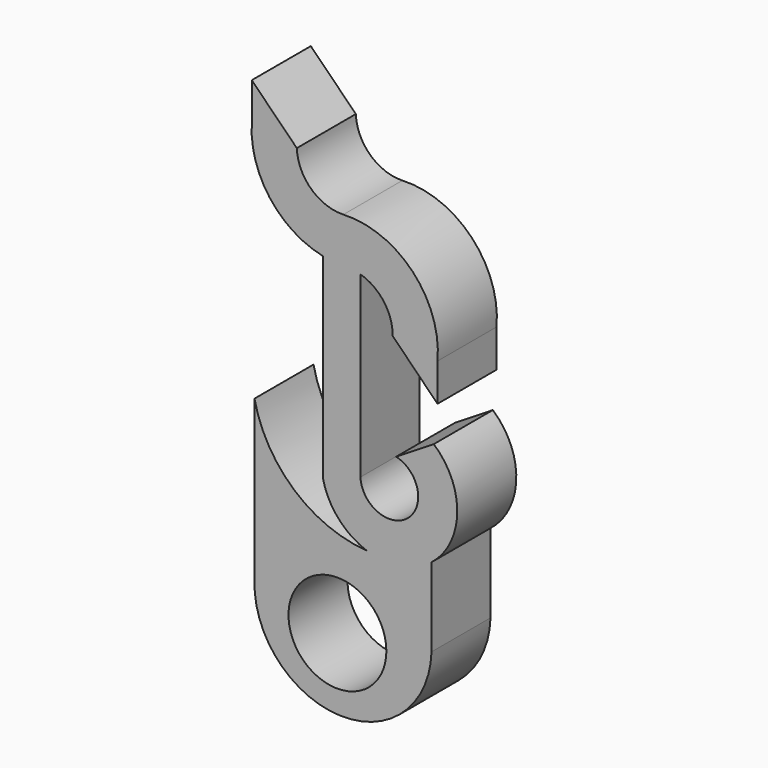
from build123d import *

# Parameters (mm, degrees)
PAD005_DEPTH = 9.8
SKETCH007_R  = 6.5
PAD006_DEPTH = 9.8
PAD004_DEPTH = 9.8


with BuildPart() as pad005:
    # Sketch005 → Pad005 (new body)
    with BuildSketch(Plane.XZ.offset(-5)):
        with BuildLine():
            ThreePointArc((42.504006, 47.762261), (40.661796, 52.159127), (36.195109, 53.824922))
            ThreePointArc((23.79127, 66.581039), (27.163695, 57.451626), (36.195109, 53.824922))
            Line((23.79127, 66.581039), (23.79127, 71.581039))
            Line((23.79127, 71.581039), (29.771593, 65.581039))
            ThreePointArc((29.771593, 65.581039), (31.67487, 61.429233), (35.949268, 59.820052))
            ThreePointArc((48.456565, 46.762261), (45.170408, 56.133543), (35.949268, 59.820052))
            Line((48.456565, 46.762261), (48.456565, 41.762261))
            Line((42.504006, 47.762261), (48.456565, 41.762261))
        make_face()
    extrude(amount=PAD005_DEPTH)


with BuildPart() as pad006:
    # Sketch007 → Pad006 (new body)
    with BuildSketch(Plane.XZ.offset(-5)):
        with BuildLine():
            ThreePointArc((24.152058, 13.228672), (35.541387, 1.101686), (47.657351, 12.502741))
            Line((47.657351, 12.502741), (47.657351, 23.35503))
            ThreePointArc((24.152058, 34.470427), (33.144992, 23.076874), (47.657351, 23.35503))
            Line((24.152058, 34.470427), (24.152058, 13.228672))
        make_face()
        with Locations((35.165497, 10.640262)):
            Circle(SKETCH007_R, mode=Mode.SUBTRACT)
    extrude(amount=PAD006_DEPTH)


with BuildPart() as fusion:
    # Sketch006 → Pad004 (new body)
    with BuildSketch(Plane.XZ.offset(-5)):
        with BuildLine():
            Line((33.220749, 59.511791), (33.220749, 28.190693))
            ThreePointArc((33.220749, 28.190693), (46.642574, 22.285891), (47.96319, 36.889591))
            Line((42.96319, 33.791788), (47.96319, 36.889591))
            ThreePointArc((38.220749, 29.859131), (44.504272, 27.107563), (42.96319, 33.791788))
            Line((38.220749, 59.318303), (38.220749, 29.859131))
            Line((33.220749, 59.511791), (38.220749, 59.318303))
        make_face()
    extrude(amount=PAD004_DEPTH)

    # Fusion: union Pad005, Pad006
    add(pad005.part)
    add(pad006.part)


solid = fusion.part
